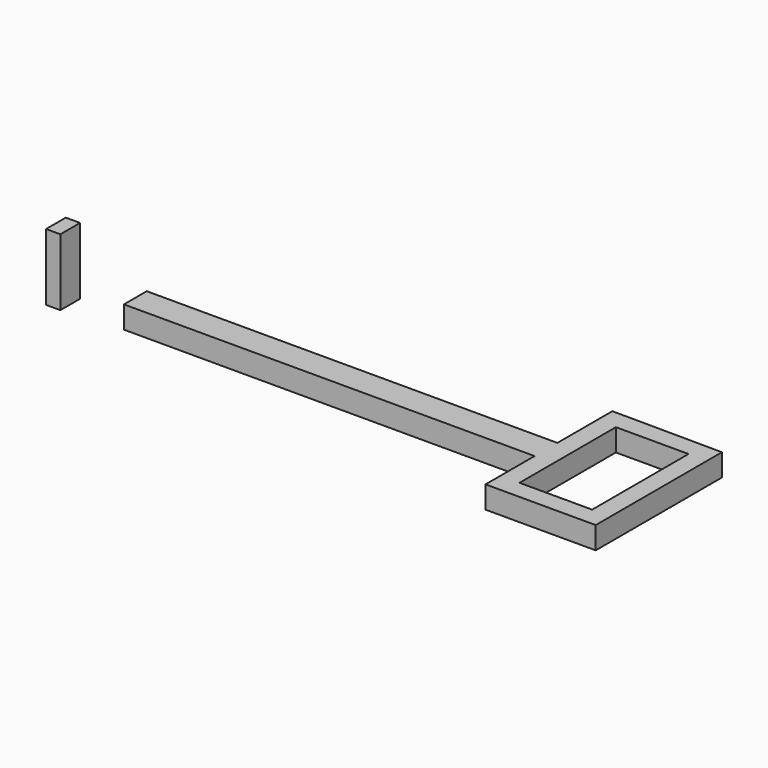
from build123d import *

# Parameters (mm, degrees)
F0_W     = 49.7284270823
F0_H     = 6.4000934362
F1_DEPTH = 5
F0_W_2   = 42.4240119755
F0_W_3   = 4.1491761804
F0_H_2   = 27.0344465971
F2_DEPTH = 5
F3_W     = 3.2034143806
F3_H     = 5.5307373405
F4_DEPTH = 15


with BuildPart() as f1:
    # F0 (on Top) → F1 (new body)
    with BuildSketch(Plane.XY):
        with Locations((17.2720532864, -5.5312477052)):
            Rectangle(F0_W, F0_H)
    extrude(amount=F1_DEPTH)

    # F0 (on Top) → F2 (join)
    with BuildSketch(Plane.XY):
        with Locations((17.2720532864, -5.5312477052)):
            Rectangle(F0_W, F0_H)
        with Locations((-28.8041662425, -5.5312477052)):
            Rectangle(F0_W_2, F0_H)
        Polygon((42.1362668276, 13.0670443177), (42.1362668276, -2.3312009871), (42.1362668276, -8.7312944233), (42.1362668276, -22.4892254919), (46.4107766747, -22.4892254919), (46.4107766747, -18.3021239936), (46.4107766747, 8.7323226035), (46.4107766747, 13.0670443177), align=None)
        Polygon((66.8589994311, 12.9136461765), (46.4107766747, 13.0670443177), (46.4107766747, 8.7323226035), (62.7098232508, 8.7323226035), (66.8589994311, 8.7323226035), align=None)
        Polygon((46.4107766747, -18.3021239936), (46.4107766747, -22.4892254919), (66.8589994311, -22.4892254919), (66.8589994311, -18.3021239936), (62.7098232508, -18.3021239936), align=None)
        with Locations((64.784411341, -4.7849006951)):
            Rectangle(F0_W_3, F0_H_2)
    extrude(amount=F2_DEPTH)


with BuildPart() as f4:
    # F3 (on face) → F4 (new body)
    with BuildSketch(Plane.XY):
        with Locations((-64.9323798716, -7.1561746299)):
            Rectangle(F3_W, F3_H)
    extrude(amount=F4_DEPTH)


solid = Compound([f1.part, f4.part])
